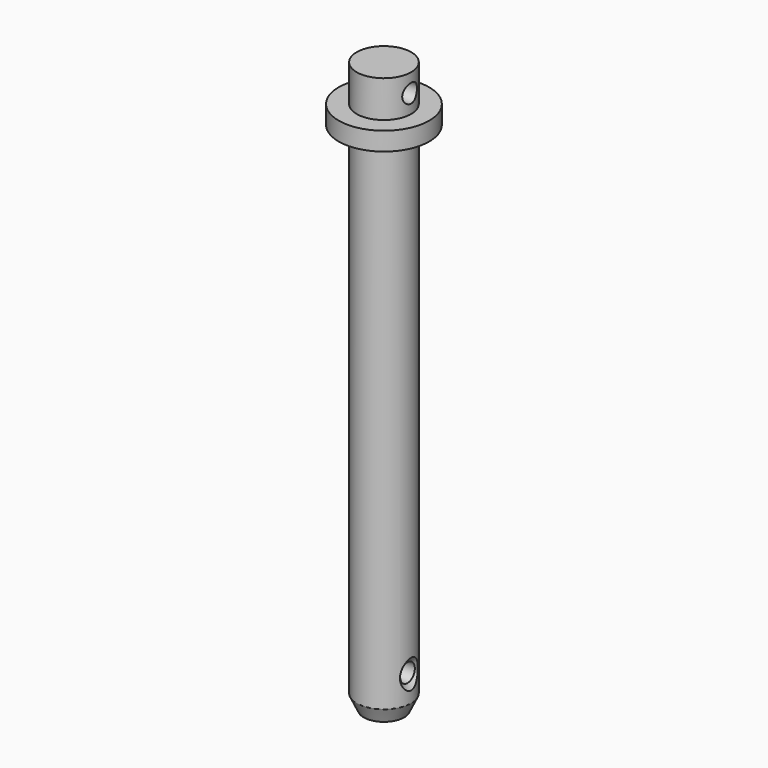
from build123d import *

# Parameters (mm, degrees)
F4_D = 6.35


with BuildPart() as f1:
    # F0 (on Front) → F1 (revolve)
    with BuildSketch(Plane.XZ):
        Polygon((-6.985, -88.9), (0, -88.9), (0, 107.95), (-9.398, 107.95), (-9.398, 95.25), (-15.621, 95.25), (-15.621, 88.9), (-9.398, 88.9), (-9.398, -83.82), align=None)
    revolve(axis=Axis((0, 0, 2.568085), (0, 0, -1)))

    # F4 (through all)
    with Locations(Plane.YZ.offset(25.4)):
        with Locations((0, 101.6)):
            Hole(F4_D / 2)

    # F5 (on Front) → F6 (revolve, cut)
    with BuildSketch(Plane.XZ):
        Polygon((-9.398, -69.977), (-9.398, -74.93), (9.398, -74.93), (9.398, -69.977), (8.128, -71.755), (-8.128, -71.755), align=None)
    revolve(axis=Axis((3.955706, 0, -74.93), (1, 0, 0)), mode=Mode.SUBTRACT)


solid = f1.part
